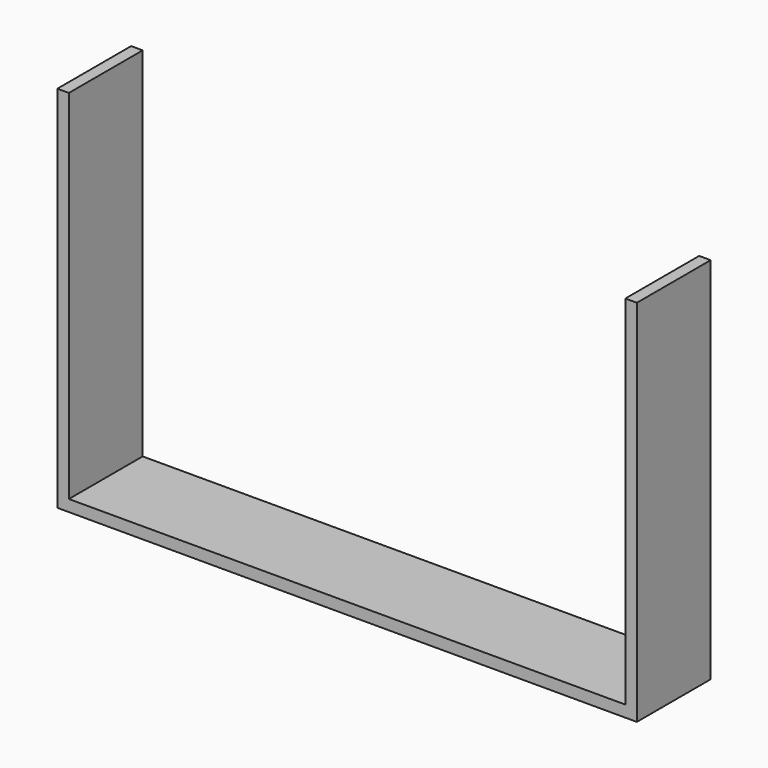
from build123d import *

# Parameters (mm, degrees)
F1_DEPTH = 152.4
F0_W     = 919.2846153846
F0_H     = 19.05
F2_DEPTH = 152.4
F3_DEPTH = 152.4


with BuildPart() as f1:
    # F0 (on Front) → F1 (new body)
    with BuildSketch(Plane.XZ):
        Polygon((938.3346153846, 19.05), (938.3346153846, 0), (957.3846153846, 0), (957.3846153846, 609.6), (938.3346153846, 609.6), align=None)
    extrude(amount=F1_DEPTH)

    # F0 (on Front) → F2 (join, through all)
    with BuildSketch(Plane.XZ):
        with Locations((478.6923076923, 9.525)):
            Rectangle(F0_W, F0_H)
    extrude(amount=F2_DEPTH)

    # F0 (on Front) → F3 (join, through all)
    with BuildSketch(Plane.XZ):
        Polygon((0, 609.6), (0, 0), (19.05, 0), (19.05, 19.05), (19.05, 609.6), align=None)
    extrude(amount=F3_DEPTH)


solid = f1.part
